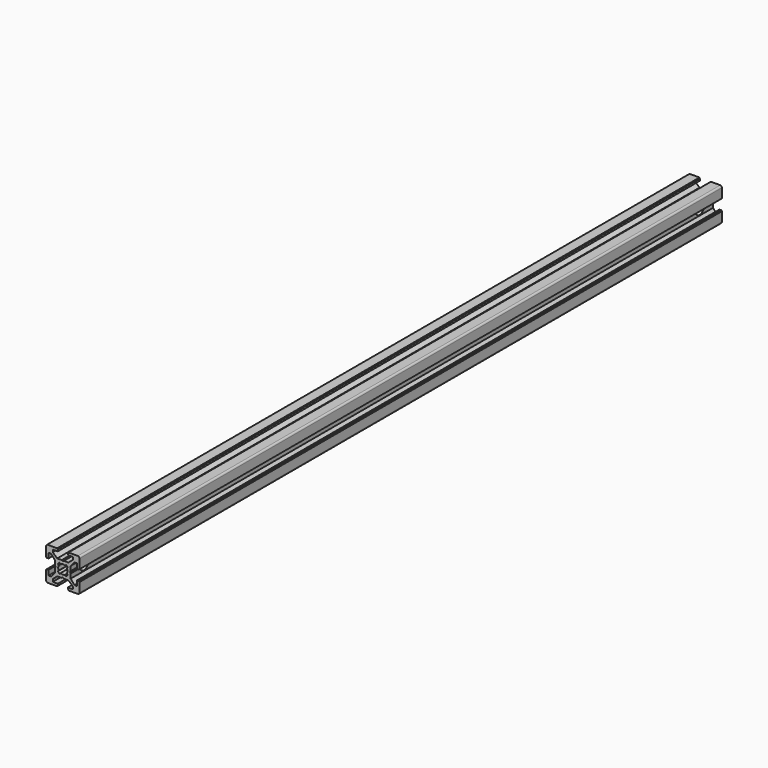
from build123d import *

# Parameters (mm, degrees)
PAD_DEPTH          = 480
POCKET_DEPTH       = 480
POLARPATTERN_COUNT = 4
POCKET001_DEPTH    = 480
SKETCH003_R        = 3
POCKET002_DEPTH    = 20
SKETCH004_R        = 5
POCKET003_DEPTH    = 3
POCKET004_DEPTH    = 3


with BuildPart() as pocket002:
    # Sketch → Pad (new body)
    with BuildSketch(Plane.XZ):
        with BuildLine():
            Line((-9, 10), (9, 10))
            ThreePointArc((10, 9), (9.707107, 9.707107), (9, 10))
            Line((10, 9), (10, -9))
            ThreePointArc((9, -10), (9.707107, -9.707107), (10, -9))
            Line((9, -10), (-9, -10))
            ThreePointArc((-10, -9), (-9.707107, -9.707107), (-9, -10))
            Line((-10, -9), (-10, 9))
            ThreePointArc((-9, 10), (-9.707107, 9.707107), (-10, 9))
        make_face()
    extrude(amount=PAD_DEPTH)

    # Sketch001 (on Face10 of Pad) → Pocket (cut)
    with BuildSketch(Plane.XZ.offset(480)):
        Polygon((-3.4, 10), (-3.4, 9.6), (-3, 9.6), (-3, 8.5), (-6, 8.5), (-6, 7), (-3.35, 4.7), (-0.65, 4.7), (0, 4.3), (0.65, 4.7), (3.35, 4.7), (6, 7), (6, 8.5), (3, 8.5), (3, 9.6), (3.4, 9.6), (3.4, 10), align=None)
    pocket = extrude(amount=-POCKET_DEPTH, mode=Mode.SUBTRACT)

    # PolarPattern: Pocket ×4 about axis
    polarpattern_axis = Axis((0, -480, 0), (0, -1, 0))
    for i in range(1, POLARPATTERN_COUNT):
        add(pocket.rotate(polarpattern_axis, i * 360 / POLARPATTERN_COUNT), mode=Mode.SUBTRACT)

    # Sketch002 (on Face4 of PolarPattern) → Pocket001 (cut)
    with BuildSketch(Plane.XZ.offset(480)):
        with BuildLine():
            ThreePointArc((1.340499, 2.401159), (0, 2.75), (-1.340499, 2.401159))
            Line((-1.944544, 3.005204), (-1.340499, 2.401159))
            Line((-3.005204, 1.944544), (-1.944544, 3.005204))
            Line((-2.401159, 1.340499), (-3.005204, 1.944544))
            ThreePointArc((-2.401159, 1.340499), (-2.75, 0), (-2.401159, -1.340499))
            Line((-3.005204, -1.944544), (-2.401159, -1.340499))
            Line((-1.944544, -3.005204), (-3.005204, -1.944544))
            Line((-1.340499, -2.401159), (-1.944544, -3.005204))
            ThreePointArc((-1.340499, -2.401159), (0, -2.75), (1.340499, -2.401159))
            Line((1.944544, -3.005204), (1.340499, -2.401159))
            Line((3.005204, -1.944544), (1.944544, -3.005204))
            Line((2.401159, -1.340499), (3.005204, -1.944544))
            ThreePointArc((2.401159, -1.340499), (2.75, 0), (2.401159, 1.340499))
            Line((2.401159, 1.340499), (3.005204, 1.944544))
            Line((3.005204, 1.944544), (1.944544, 3.005204))
            Line((1.944544, 3.005204), (1.340499, 2.401159))
        make_face()
    extrude(amount=-POCKET001_DEPTH, mode=Mode.SUBTRACT)

    # Sketch003 (on Face44 of Pocket001) → Pocket002 (cut)
    with BuildSketch(Plane(origin=(10, 0, 0), x_dir=(0, 0, 1), z_dir=(1, 0, 0))):
        with Locations((0, 10)):
            Circle(SKETCH003_R)
        with Locations((0, 470)):
            Circle(SKETCH003_R)
    extrude(amount=-POCKET002_DEPTH, mode=Mode.SUBTRACT)


with BuildPart() as pocket003:
    # Pocket003 base: copy of Pocket002
    add(pocket002.part)

    # Sketch004 (on Face37 of Pocket002) → Pocket003 (cut)
    with BuildSketch(Plane(origin=(-10, 0, 0), x_dir=(0, 0, -1), z_dir=(-1, 0, 0))):
        with Locations((0, 10)):
            Circle(SKETCH004_R)
        with Locations((0, 470)):
            Circle(SKETCH004_R)
    extrude(amount=-POCKET003_DEPTH, mode=Mode.SUBTRACT)


with BuildPart() as pocket004:
    # Pocket004 base: copy of Pocket002
    add(pocket002.part)

    # Sketch004 (on Face37 of Pocket002) → Pocket004 (cut)
    with BuildSketch(Plane(origin=(-10, 0, 0), x_dir=(0, 0, -1), z_dir=(-1, 0, 0))):
        with Locations((0, 10)):
            Circle(SKETCH004_R)
        with Locations((0, 470)):
            Circle(SKETCH004_R)
    extrude(amount=-POCKET004_DEPTH, mode=Mode.SUBTRACT)


solid = Compound([pocket003.part, pocket004.part])
